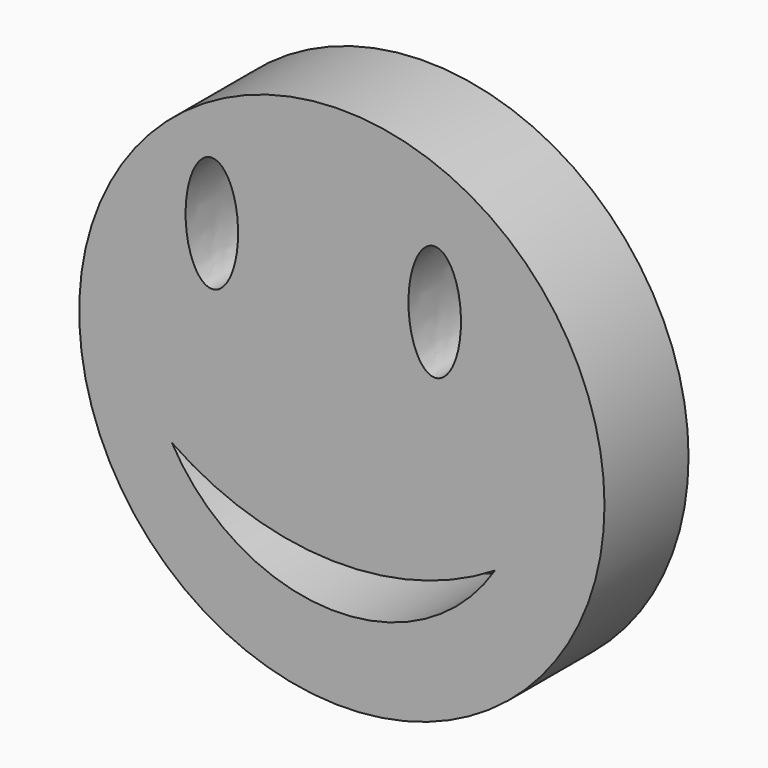
from build123d import *

# Parameters (mm, degrees)
F0_R     = 6.350037
F1_DEPTH = 2.54


with BuildPart() as f1:
    # F0 (on Front) → F1 (new body)
    with BuildSketch(Plane.XZ):
        Circle(F0_R)
        with BuildLine():
            ThreePointArc((3.6997, -2.250772), (-0.256442, -4.373777), (-4.110112, -2.069989))
            ThreePointArc((-4.110112, -2.069989), (-0.23208, -3.321333), (3.6997, -2.250772))
        make_face(mode=Mode.SUBTRACT)
        with BuildLine():
            add(Edge.make_bspline(
                [(-3.142784, 1.516398), (-2.042932, 1.516398), (-2.592858, 3.611898), (-3.142784, 5.707398), (-3.69271, 3.611898), (-4.242636, 1.516398), (-3.142784, 1.516398)],
                knots=[0, 0, 0, 2.094395, 2.094395, 4.18879, 4.18879, 6.283185, 6.283185, 6.283185], degree=2, weights=[1, 0.5, 1, 0.5, 1, 0.5, 1]))
        make_face(mode=Mode.SUBTRACT)
        with BuildLine():
            add(Edge.make_bspline(
                [(2.24537, 1.381694), (3.345222, 1.381694), (2.795296, 3.477194), (2.24537, 5.572694), (1.695444, 3.477194), (1.145518, 1.381694), (2.24537, 1.381694)],
                knots=[0, 0, 0, 2.094395, 2.094395, 4.18879, 4.18879, 6.283185, 6.283185, 6.283185], degree=2, weights=[1, 0.5, 1, 0.5, 1, 0.5, 1]))
        make_face(mode=Mode.SUBTRACT)
    extrude(amount=F1_DEPTH)


solid = f1.part
